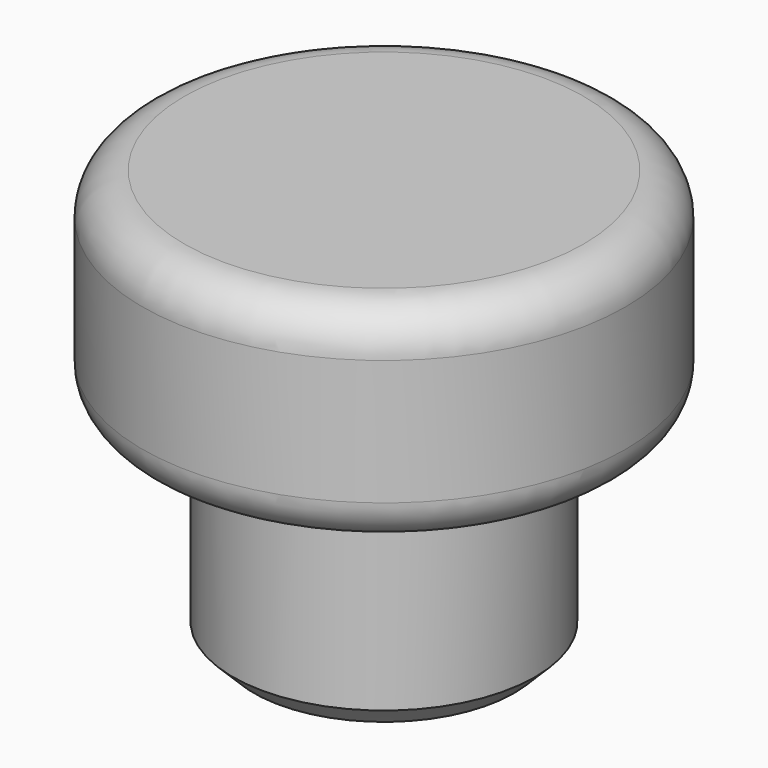
from build123d import *

# Parameters (mm, degrees)
F0_R     = 18.374195
F1_DEPTH = 25.4
F2_R     = 29.366769
F3_DEPTH = 25.4
F4_R     = 5.08
F5_R     = 5.08
F6_SIZE  = 2.54


with BuildPart() as f1:
    # F0 (on Top) → F1 (new body)
    with BuildSketch(Plane.XY):
        Circle(F0_R)
    extrude(amount=-F1_DEPTH)

    # F2 (on Top) → F3 (join)
    with BuildSketch(Plane.XY):
        Circle(F2_R)
    extrude(amount=F3_DEPTH)

    # F4
    f4_edges = [f1.edges().sort_by_distance(p)[0] for p in [
        (-29.366769, 0, 25.4),
    ]]
    fillet(f4_edges, radius=F4_R)

    # F5
    f5_edges = [f1.edges().sort_by_distance(p)[0] for p in [
        (-29.366769, 0, 0),
    ]]
    fillet(f5_edges, radius=F5_R)

    # F6
    f6_edges = [f1.edges().sort_by_distance(p)[0] for p in [
        (-18.374195, 0, -25.4),
    ]]
    chamfer(f6_edges, length=F6_SIZE)


solid = f1.part
